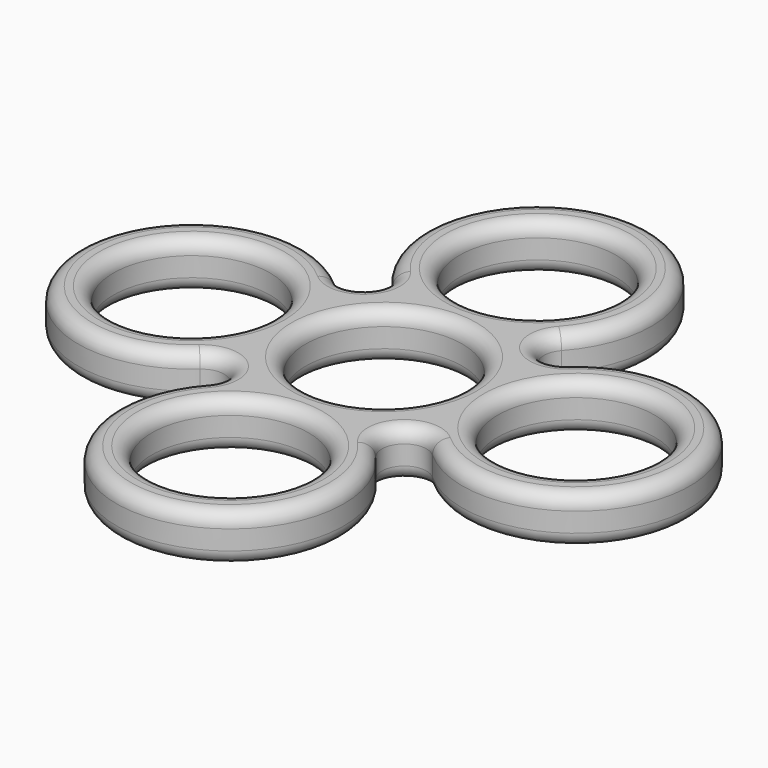
from build123d import *

# Parameters (mm, degrees)
F0_R     = 11.1
F1_DEPTH = 6.75
F2_R     = 2


with BuildPart() as f1:
    # F0 (on Top) → F1 (new body)
    with BuildSketch(Plane.XY):
        with BuildLine():
            ThreePointArc((11.975488, 16.439067), (0, 43.3), (-11.975488, 16.439067))
            ThreePointArc((-11.975488, 16.439067), (-12.091526, 12.091526), (-16.439067, 11.975488))
            ThreePointArc((-16.439067, 11.975488), (-43.3, 0), (-16.439067, -11.975488))
            ThreePointArc((-16.439067, -11.975488), (-12.091526, -12.091526), (-11.975488, -16.439067))
            ThreePointArc((-11.975488, -16.439067), (0, -43.3), (11.975488, -16.439067))
            ThreePointArc((11.975488, -16.439067), (12.091526, -12.091526), (16.439067, -11.975488))
            ThreePointArc((16.439067, -11.975488), (43.3, 0), (16.439067, 11.975488))
            ThreePointArc((16.439067, 11.975488), (12.091526, 12.091526), (11.975488, 16.439067))
        make_face()
        with Locations((0, -27.2)):
            Circle(F0_R, mode=Mode.SUBTRACT)
        with Locations((-27.2, 0)):
            Circle(F0_R, mode=Mode.SUBTRACT)
        Circle(F0_R, mode=Mode.SUBTRACT)
        with Locations((27.2, 0)):
            Circle(F0_R, mode=Mode.SUBTRACT)
        with Locations((0, 27.2)):
            Circle(F0_R, mode=Mode.SUBTRACT)
    extrude(amount=F1_DEPTH)

    # F2
    f2_edges = [f1.edges().sort_by_distance(p)[0] for p in [
        (-11.1, 27.2, 6.75),
        (0, 43.3, 6.75),
        (-11.1, 0, 6.75),
        (-38.3, 0, 6.75),
        (-11.1, -27.2, 6.75),
        (16.1, 0, 6.75),
        (16.1, 0, 0),
        (-11.1, 0, 0),
        (-11.1, -27.2, 0),
        (-43.3, 0, 0),
        (-38.3, 0, 0),
        (-11.1, 27.2, 0),
    ]]
    fillet(f2_edges, radius=F2_R)


solid = f1.part
